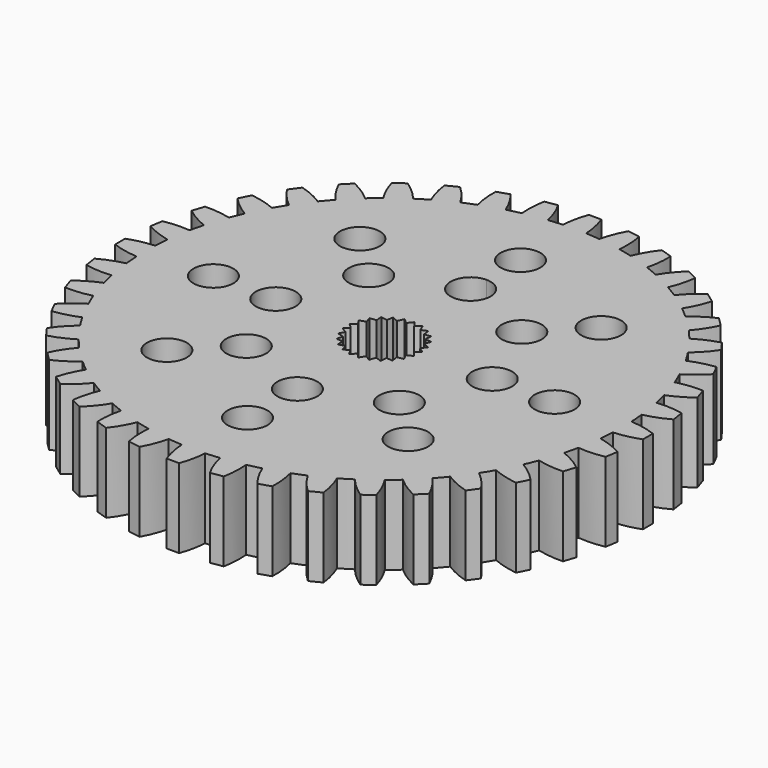
from build123d import *

# Parameters (mm, degrees)
F0_R     = 1.6
F1_DEPTH = 6.35


with BuildPart() as f1:
    # F0 (on Top) → F1 (new body)
    with BuildSketch(Plane.XY):
        with BuildLine():
            Line((0.5, 21.150821), (-0.5, 21.150821))
            ThreePointArc((-0.5, 21.150821), (-0.794678, 20.135079), (-0.936717, 19.087037))
            ThreePointArc((-0.936717, 19.087037), (-1.499354, 19.051099), (-2.060686, 18.998579))
            ThreePointArc((-2.060686, 18.998579), (-2.364926, 20.011498), (-2.814873, 20.968637))
            Line((-2.814873, 20.968637), (-3.802562, 20.812202))
            ThreePointArc((-3.802562, 20.812202), (-3.934714, 19.762868), (-3.911055, 18.705509))
            ThreePointArc((-3.911055, 18.705509), (-4.461143, 18.581997), (-5.007348, 18.442312))
            ThreePointArc((-5.007348, 18.442312), (-5.466298, 19.395167), (-6.060435, 20.270135))
            Line((-6.060435, 20.270135), (-7.011491, 19.961118))
            ThreePointArc((-7.011491, 19.961118), (-6.977865, 18.904029), (-6.78909, 17.863389))
            ThreePointArc((-6.78909, 17.863389), (-7.313084, 17.655346), (-7.830712, 17.431935))
            ThreePointArc((-7.830712, 17.431935), (-8.433071, 18.301263), (-9.156769, 19.072515))
            Line((-9.156769, 19.072515), (-10.047775, 18.618524))
            ThreePointArc((-10.047775, 18.618524), (-9.849198, 17.57971), (-9.499955, 16.581414))
            ThreePointArc((-9.499955, 16.581414), (-9.984952, 16.293961), (-10.461259, 15.992326))
            ThreePointArc((-10.461259, 15.992326), (-11.192194, 16.756721), (-12.027632, 17.405266))
            Line((-12.027632, 17.405266), (-12.836649, 16.817481))
            ThreePointArc((-12.836649, 16.817481), (-12.47801, 15.822521), (-11.976899, 14.891149))
            ThreePointArc((-11.976899, 14.891149), (-12.410958, 14.531364), (-12.834214, 14.158932))
            ThreePointArc((-12.834214, 14.158932), (-13.675729, 14.799573), (-14.602336, 15.309442))
            Line((-14.602336, 15.309442), (-15.309442, 14.602336))
            ThreePointArc((-15.309442, 14.602336), (-14.799573, 13.675729), (-14.158932, 12.834214))
            ThreePointArc((-14.158932, 12.834214), (-14.531364, 12.410958), (-14.891149, 11.976899))
            ThreePointArc((-14.891149, 11.976899), (-15.822521, 12.47801), (-16.817481, 12.836649))
            Line((-16.817481, 12.836649), (-17.405266, 12.027632))
            ThreePointArc((-17.405266, 12.027632), (-16.756721, 11.192194), (-15.992326, 10.461259))
            ThreePointArc((-15.992326, 10.461259), (-16.293961, 9.984952), (-16.581414, 9.499955))
            ThreePointArc((-16.581414, 9.499955), (-17.57971, 9.849198), (-18.618524, 10.047775))
            Line((-18.618524, 10.047775), (-19.072515, 9.156769))
            ThreePointArc((-19.072515, 9.156769), (-18.301263, 8.433071), (-17.431935, 7.830712))
            ThreePointArc((-17.431935, 7.830712), (-17.655346, 7.313084), (-17.863389, 6.78909))
            ThreePointArc((-17.863389, 6.78909), (-18.904029, 6.977865), (-19.961118, 7.011491))
            Line((-19.961118, 7.011491), (-20.270135, 6.060435))
            ThreePointArc((-20.270135, 6.060435), (-19.395167, 5.466298), (-18.442312, 5.007348))
            ThreePointArc((-18.442312, 5.007348), (-18.581997, 4.461143), (-18.705509, 3.911055))
            ThreePointArc((-18.705509, 3.911055), (-19.762868, 3.934714), (-20.812202, 3.802562))
            Line((-20.812202, 3.802562), (-20.968637, 2.814873))
            ThreePointArc((-20.968637, 2.814873), (-20.011498, 2.364926), (-18.998579, 2.060686))
            ThreePointArc((-18.998579, 2.060686), (-19.051099, 1.499354), (-19.087037, 0.936717))
            ThreePointArc((-19.087037, 0.936717), (-20.135079, 0.794678), (-21.150821, 0.5))
            Line((-21.150821, 0.5), (-21.150821, -0.5))
            ThreePointArc((-21.150821, -0.5), (-20.135079, -0.794678), (-19.087037, -0.936717))
            ThreePointArc((-19.087037, -0.936717), (-19.051099, -1.499354), (-18.998579, -2.060686))
            ThreePointArc((-18.998579, -2.060686), (-20.011498, -2.364926), (-20.968637, -2.814873))
            Line((-20.968637, -2.814873), (-20.812202, -3.802562))
            ThreePointArc((-20.812202, -3.802562), (-19.762868, -3.934714), (-18.705509, -3.911055))
            ThreePointArc((-18.705509, -3.911055), (-18.581997, -4.461143), (-18.442312, -5.007348))
            ThreePointArc((-18.442312, -5.007348), (-19.395167, -5.466298), (-20.270135, -6.060435))
            Line((-20.270135, -6.060435), (-19.961118, -7.011491))
            ThreePointArc((-19.961118, -7.011491), (-18.904029, -6.977865), (-17.863389, -6.78909))
            ThreePointArc((-17.863389, -6.78909), (-17.655346, -7.313084), (-17.431935, -7.830712))
            ThreePointArc((-17.431935, -7.830712), (-18.301263, -8.433071), (-19.072515, -9.156769))
            Line((-19.072515, -9.156769), (-18.618524, -10.047775))
            ThreePointArc((-18.618524, -10.047775), (-17.57971, -9.849198), (-16.581414, -9.499955))
            ThreePointArc((-16.581414, -9.499955), (-16.293961, -9.984952), (-15.992326, -10.461259))
            ThreePointArc((-15.992326, -10.461259), (-16.756721, -11.192194), (-17.405266, -12.027632))
            Line((-17.405266, -12.027632), (-16.817481, -12.836649))
            ThreePointArc((-16.817481, -12.836649), (-15.822521, -12.47801), (-14.891149, -11.976899))
            ThreePointArc((-14.891149, -11.976899), (-14.531364, -12.410958), (-14.158932, -12.834214))
            ThreePointArc((-14.158932, -12.834214), (-14.799573, -13.675729), (-15.309442, -14.602336))
            Line((-15.309442, -14.602336), (-14.602336, -15.309442))
            ThreePointArc((-14.602336, -15.309442), (-13.675729, -14.799573), (-12.834214, -14.158932))
            ThreePointArc((-12.834214, -14.158932), (-12.410958, -14.531364), (-11.976899, -14.891149))
            ThreePointArc((-11.976899, -14.891149), (-12.47801, -15.822521), (-12.836649, -16.817481))
            Line((-12.836649, -16.817481), (-12.027632, -17.405266))
            ThreePointArc((-12.027632, -17.405266), (-11.192194, -16.756721), (-10.461259, -15.992326))
            ThreePointArc((-10.461259, -15.992326), (-9.984952, -16.293961), (-9.499955, -16.581414))
            ThreePointArc((-9.499955, -16.581414), (-9.849198, -17.57971), (-10.047775, -18.618524))
            Line((-10.047775, -18.618524), (-9.156769, -19.072515))
            ThreePointArc((-9.156769, -19.072515), (-8.433071, -18.301263), (-7.830712, -17.431935))
            ThreePointArc((-7.830712, -17.431935), (-7.313084, -17.655346), (-6.78909, -17.863389))
            ThreePointArc((-6.78909, -17.863389), (-6.977865, -18.904029), (-7.011491, -19.961118))
            Line((-7.011491, -19.961118), (-6.060435, -20.270135))
            ThreePointArc((-6.060435, -20.270135), (-5.466298, -19.395167), (-5.007348, -18.442312))
            ThreePointArc((-5.007348, -18.442312), (-4.461143, -18.581997), (-3.911055, -18.705509))
            ThreePointArc((-3.911055, -18.705509), (-3.934714, -19.762868), (-3.802562, -20.812202))
            Line((-3.802562, -20.812202), (-2.814873, -20.968637))
            ThreePointArc((-2.814873, -20.968637), (-2.364926, -20.011498), (-2.060686, -18.998579))
            ThreePointArc((-2.060686, -18.998579), (-1.499354, -19.051099), (-0.936717, -19.087037))
            ThreePointArc((-0.936717, -19.087037), (-0.794678, -20.135079), (-0.5, -21.150821))
            Line((-0.5, -21.150821), (0.5, -21.150821))
            ThreePointArc((0.5, -21.150821), (0.794678, -20.135079), (0.936717, -19.087037))
            ThreePointArc((0.936717, -19.087037), (1.499354, -19.051099), (2.060686, -18.998579))
            ThreePointArc((2.060686, -18.998579), (2.364926, -20.011498), (2.814873, -20.968637))
            Line((2.814873, -20.968637), (3.802562, -20.812202))
            ThreePointArc((3.802562, -20.812202), (3.934714, -19.762868), (3.911055, -18.705509))
            ThreePointArc((3.911055, -18.705509), (4.461143, -18.581997), (5.007348, -18.442312))
            ThreePointArc((5.007348, -18.442312), (5.466298, -19.395167), (6.060435, -20.270135))
            Line((6.060435, -20.270135), (7.011491, -19.961118))
            ThreePointArc((7.011491, -19.961118), (6.977865, -18.904029), (6.78909, -17.863389))
            ThreePointArc((6.78909, -17.863389), (7.313084, -17.655346), (7.830712, -17.431935))
            ThreePointArc((7.830712, -17.431935), (8.433071, -18.301263), (9.156769, -19.072515))
            Line((9.156769, -19.072515), (10.047775, -18.618524))
            ThreePointArc((10.047775, -18.618524), (9.849198, -17.57971), (9.499955, -16.581414))
            ThreePointArc((9.499955, -16.581414), (9.984952, -16.293961), (10.461259, -15.992326))
            ThreePointArc((10.461259, -15.992326), (11.192194, -16.756721), (12.027632, -17.405266))
            Line((12.027632, -17.405266), (12.836649, -16.817481))
            ThreePointArc((12.836649, -16.817481), (12.47801, -15.822521), (11.976899, -14.891149))
            ThreePointArc((11.976899, -14.891149), (12.410958, -14.531364), (12.834214, -14.158932))
            ThreePointArc((12.834214, -14.158932), (13.675729, -14.799573), (14.602336, -15.309442))
            Line((14.602336, -15.309442), (15.309442, -14.602336))
            ThreePointArc((15.309442, -14.602336), (14.799573, -13.675729), (14.158932, -12.834214))
            ThreePointArc((14.158932, -12.834214), (14.531364, -12.410958), (14.891149, -11.976899))
            ThreePointArc((14.891149, -11.976899), (15.822521, -12.47801), (16.817481, -12.836649))
            Line((16.817481, -12.836649), (17.405266, -12.027632))
            ThreePointArc((17.405266, -12.027632), (16.756721, -11.192194), (15.992326, -10.461259))
            ThreePointArc((15.992326, -10.461259), (16.293961, -9.984952), (16.581414, -9.499955))
            ThreePointArc((16.581414, -9.499955), (17.57971, -9.849198), (18.618524, -10.047775))
            Line((18.618524, -10.047775), (19.072515, -9.156769))
            ThreePointArc((19.072515, -9.156769), (18.301263, -8.433071), (17.431935, -7.830712))
            ThreePointArc((17.431935, -7.830712), (17.655346, -7.313084), (17.863389, -6.78909))
            ThreePointArc((17.863389, -6.78909), (18.904029, -6.977865), (19.961118, -7.011491))
            Line((19.961118, -7.011491), (20.270135, -6.060435))
            ThreePointArc((20.270135, -6.060435), (19.395167, -5.466298), (18.442312, -5.007348))
            ThreePointArc((18.442312, -5.007348), (18.581997, -4.461143), (18.705509, -3.911055))
            ThreePointArc((18.705509, -3.911055), (19.762868, -3.934714), (20.812202, -3.802562))
            Line((20.812202, -3.802562), (20.968637, -2.814873))
            ThreePointArc((20.968637, -2.814873), (20.011498, -2.364926), (18.998579, -2.060686))
            ThreePointArc((18.998579, -2.060686), (19.051099, -1.499354), (19.087037, -0.936717))
            ThreePointArc((19.087037, -0.936717), (20.135079, -0.794678), (21.150821, -0.5))
            Line((21.150821, -0.5), (21.150821, 0.5))
            ThreePointArc((21.150821, 0.5), (20.135079, 0.794678), (19.087037, 0.936717))
            ThreePointArc((19.087037, 0.936717), (19.051099, 1.499354), (18.998579, 2.060686))
            ThreePointArc((18.998579, 2.060686), (20.011498, 2.364926), (20.968637, 2.814873))
            Line((20.968637, 2.814873), (20.812202, 3.802562))
            ThreePointArc((20.812202, 3.802562), (19.762868, 3.934714), (18.705509, 3.911055))
            ThreePointArc((18.705509, 3.911055), (18.581997, 4.461143), (18.442312, 5.007348))
            ThreePointArc((18.442312, 5.007348), (19.395167, 5.466298), (20.270135, 6.060435))
            Line((20.270135, 6.060435), (19.961118, 7.011491))
            ThreePointArc((19.961118, 7.011491), (18.904029, 6.977865), (17.863389, 6.78909))
            ThreePointArc((17.863389, 6.78909), (17.655346, 7.313084), (17.431935, 7.830712))
            ThreePointArc((17.431935, 7.830712), (18.301263, 8.433071), (19.072515, 9.156769))
            Line((19.072515, 9.156769), (18.618524, 10.047775))
            ThreePointArc((18.618524, 10.047775), (17.57971, 9.849198), (16.581414, 9.499955))
            ThreePointArc((16.581414, 9.499955), (16.293961, 9.984952), (15.992326, 10.461259))
            ThreePointArc((15.992326, 10.461259), (16.756721, 11.192194), (17.405266, 12.027632))
            Line((17.405266, 12.027632), (16.817481, 12.836649))
            ThreePointArc((16.817481, 12.836649), (15.822521, 12.47801), (14.891149, 11.976899))
            ThreePointArc((14.891149, 11.976899), (14.531364, 12.410958), (14.158932, 12.834214))
            ThreePointArc((14.158932, 12.834214), (14.799573, 13.675729), (15.309442, 14.602336))
            Line((15.309442, 14.602336), (14.602336, 15.309442))
            ThreePointArc((14.602336, 15.309442), (13.675729, 14.799573), (12.834214, 14.158932))
            ThreePointArc((12.834214, 14.158932), (12.410958, 14.531364), (11.976899, 14.891149))
            ThreePointArc((11.976899, 14.891149), (12.47801, 15.822521), (12.836649, 16.817481))
            Line((12.836649, 16.817481), (12.027632, 17.405266))
            ThreePointArc((12.027632, 17.405266), (11.192194, 16.756721), (10.461259, 15.992326))
            ThreePointArc((10.461259, 15.992326), (9.984952, 16.293961), (9.499955, 16.581414))
            ThreePointArc((9.499955, 16.581414), (9.849198, 17.57971), (10.047775, 18.618524))
            Line((10.047775, 18.618524), (9.156769, 19.072515))
            ThreePointArc((9.156769, 19.072515), (8.433071, 18.301263), (7.830712, 17.431935))
            ThreePointArc((7.830712, 17.431935), (7.313084, 17.655346), (6.78909, 17.863389))
            ThreePointArc((6.78909, 17.863389), (6.977865, 18.904029), (7.011491, 19.961118))
            Line((7.011491, 19.961118), (6.060435, 20.270135))
            ThreePointArc((6.060435, 20.270135), (5.466298, 19.395167), (5.007348, 18.442312))
            ThreePointArc((5.007348, 18.442312), (4.461143, 18.581997), (3.911055, 18.705509))
            ThreePointArc((3.911055, 18.705509), (3.934714, 19.762868), (3.802562, 20.812202))
            Line((3.802562, 20.812202), (2.814873, 20.968637))
            ThreePointArc((2.814873, 20.968637), (2.364926, 20.011498), (2.060686, 18.998579))
            ThreePointArc((2.060686, 18.998579), (1.499354, 19.051099), (0.936717, 19.087037))
            ThreePointArc((0.936717, 19.087037), (0.794678, 20.135079), (0.5, 21.150821))
        make_face()
        with Locations((-9.669685, -9.669685)):
            Circle(F0_R, mode=Mode.SUBTRACT)
        with Locations((-6.134151, -6.134151)):
            Circle(F0_R, mode=Mode.SUBTRACT)
        with Locations((0, -13.675)):
            Circle(F0_R, mode=Mode.SUBTRACT)
        with Locations((0, -8.675)):
            Circle(F0_R, mode=Mode.SUBTRACT)
        with Locations((9.669685, -9.669685)):
            Circle(F0_R, mode=Mode.SUBTRACT)
        with Locations((6.134151, -6.134151)):
            Circle(F0_R, mode=Mode.SUBTRACT)
        with Locations((-13.675, 0)):
            Circle(F0_R, mode=Mode.SUBTRACT)
        with Locations((-8.675, 0)):
            Circle(F0_R, mode=Mode.SUBTRACT)
        with Locations((-6.134151, 6.134151)):
            Circle(F0_R, mode=Mode.SUBTRACT)
        with Locations((-9.669685, 9.669685)):
            Circle(F0_R, mode=Mode.SUBTRACT)
        Polygon((-2.313127, 1.150841), (-2.481189, 1.651718), (-1.954254, 1.689937), (-1.992473, 2.216873), (-1.472587, 2.122848), (-1.378562, 2.642733), (-0.898392, 2.422372), (-0.678031, 2.902541), (-0.267748, 2.56969), (0.065104, 2.979972), (0.37972, 2.555544), (0.804147, 2.87016), (1.003328, 2.380825), (1.492663, 2.580005), (1.563894, 2.056509), (2.08739, 2.12774), (2.026194, 1.602976), (2.550958, 1.54178), (2.361181, 1.048721), (2.85424, 0.858945), (2.547807, 0.428572), (2.97818, 0.122139), (2.574344, -0.218506), (2.914989, -0.622342), (2.439126, -0.851855), (2.668639, -1.327718), (2.150649, -1.431678), (2.254609, -1.949669), (1.727038, -1.921544), (1.698914, -2.449115), (1.194912, -2.290672), (1.036469, -2.794674), (0.587704, -2.515869), (0.308899, -2.964634), (-0.056431, -2.582985), (-0.43808, -2.948314), (-0.69702, -2.487802), (-1.157533, -2.746742), (-1.293813, -2.236301), (-1.804254, -2.372581), (-1.809311, -1.844285), (-2.337607, -1.849342), (-2.211123, -1.336386), (-2.724079, -1.209903), (-2.474002, -0.744517), (-2.939388, -0.494441), (-2.581431, -0.105868), (-2.970004, 0.252089), (-2.526659, 0.539434), (-2.814004, 0.982779), align=None, mode=Mode.SUBTRACT)
        with Locations((8.675, 0)):
            Circle(F0_R, mode=Mode.SUBTRACT)
        with BuildLine():
            ThreePointArc((1.6, 8.675), (-1.131371, 7.543629), (0, 10.275))
            ThreePointArc((0, 10.275), (1.131371, 9.806371), (1.6, 8.675))
        make_face(mode=Mode.SUBTRACT)
        with Locations((6.134151, 6.134151)):
            Circle(F0_R, mode=Mode.SUBTRACT)
        with Locations((9.669685, 9.669685)):
            Circle(F0_R, mode=Mode.SUBTRACT)
        with Locations((13.675, 0)):
            Circle(F0_R, mode=Mode.SUBTRACT)
        with BuildLine():
            ThreePointArc((0, 12.075), (-1.131371, 14.806371), (1.6, 13.675))
            ThreePointArc((1.6, 13.675), (1.131371, 12.543629), (0, 12.075))
        make_face(mode=Mode.SUBTRACT)
    extrude(amount=F1_DEPTH)


solid = f1.part
